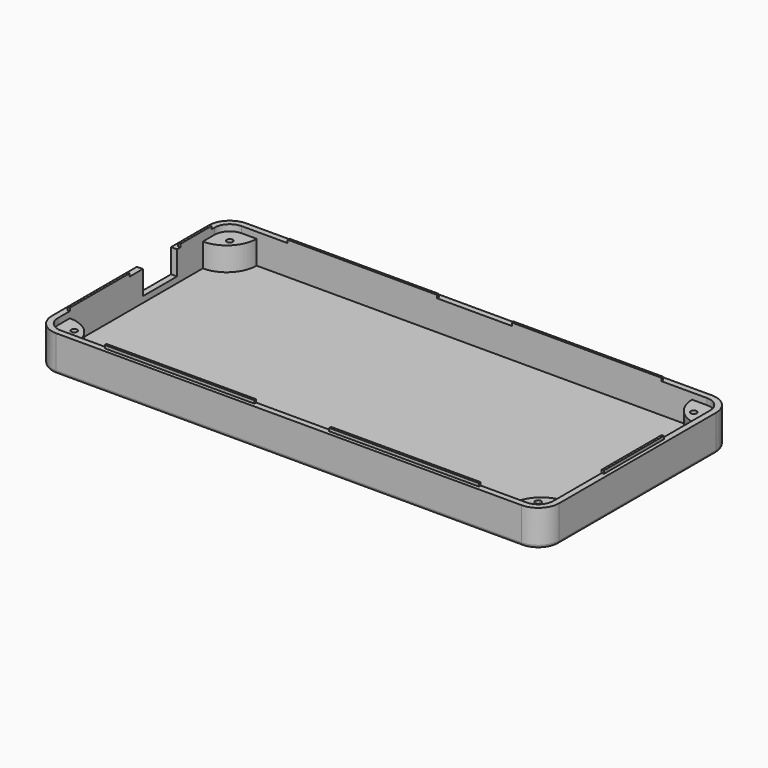
from build123d import *

# Parameters (mm, degrees)
PAD_DEPTH               = 10
THICKNESS_T             = 2
SKETCH001_R             = 1
PAD001_DEPTH            = 7.9
SKETCH001_MIRRORED_2_R  = 1
PAD001_MIRRORED_2_DEPTH = 7.9
SKETCH003_W             = 14.25
SKETCH003_H             = 8
POCKET_DEPTH            = 5
FILLET_R                = 1
SKETCH004_W             = 50
SKETCH004_H             = 0.75
SKETCH004_W_2           = 0.75
SKETCH004_H_2           = 25
SKETCH004_H_3           = 13
PAD002_DEPTH            = 1


with BuildPart() as part:
    # Sketch → Pad (new body)
    with BuildSketch(Plane.XY):
        with BuildLine():
            ThreePointArc((-77.75, 37.75), (-81.285534, 36.285534), (-82.75, 32.75))
            Line((-82.75, -32.75), (-82.75, 32.75))
            ThreePointArc((-82.75, -32.75), (-81.285534, -36.285534), (-77.75, -37.75))
            Line((77.75, -37.75), (-77.75, -37.75))
            ThreePointArc((77.75, -37.75), (81.285534, -36.285534), (82.75, -32.75))
            Line((82.75, 32.75), (82.75, -32.75))
            ThreePointArc((82.75, 32.75), (81.285534, 36.285534), (77.75, 37.75))
            Line((-77.75, 37.75), (77.75, 37.75))
        make_face()
    extrude(amount=PAD_DEPTH)

    # Thickness
    thickness_openings = [part.faces().sort_by_distance(p)[0] for p in [
        (0, 0, 10),
    ]]
    offset(amount=THICKNESS_T, openings=thickness_openings, kind=Kind.INTERSECTION)

    # Sketch001 (on Face9 of Thickness) → Pad001 (join)
    with BuildSketch(Plane.XY):
        with BuildLine():
            Line((-77.75, 37.75), (-72.75, 37.75))
            ThreePointArc((-82.75, 27.75), (-75.678932, 30.678932), (-72.75, 37.75))
            Line((-82.75, 32.75), (-82.75, 27.75))
            ThreePointArc((-77.75, 37.75), (-81.285534, 36.285534), (-82.75, 32.75))
        make_face()
        with Locations((-77.5, 32.5)):
            Circle(SKETCH001_R, mode=Mode.SUBTRACT)
    pad001 = extrude(amount=PAD001_DEPTH)

    # Sketch001 Mirrored 2 → Pad001 Mirrored 2 (add)
    with BuildSketch(Plane(origin=(0, 0, 0), x_dir=(-1, 0, 0), z_dir=(0, 0, -1))):
        with BuildLine():
            Line((-77.75, 37.75), (-72.75, 37.75))
            ThreePointArc((-82.75, 27.75), (-75.678932, 30.678932), (-72.75, 37.75))
            Line((-82.75, 32.75), (-82.75, 27.75))
            ThreePointArc((-77.75, 37.75), (-81.285534, 36.285534), (-82.75, 32.75))
        make_face()
        with Locations((-77.5, 32.5)):
            Circle(SKETCH001_MIRRORED_2_R, mode=Mode.SUBTRACT)
    pad001_mirrored_2 = extrude(amount=-PAD001_MIRRORED_2_DEPTH)

    # Mirrored001: Pad001, Pad001 Mirrored 2 across Sketch001 H_Axis
    add(pad001.mirror(Plane.ZX))
    add(pad001_mirrored_2.mirror(Plane.ZX))

    # Sketch003 (on Face19 of MultiTransform) → Pocket (cut)
    with BuildSketch(Plane(origin=(-84.75, 0, 0), x_dir=(0, -1, 0), z_dir=(-1, 0, 0))):
        with Locations((-9.875, 6)):
            Rectangle(SKETCH003_W, SKETCH003_H)
    extrude(amount=-POCKET_DEPTH, mode=Mode.SUBTRACT)

    # Fillet
    fillet_edges = [part.edges().sort_by_distance(p)[0] for p in [
        (0, 39.75, -2),
        (82.699747, 37.699747, -2),
        (84.75, 0, -2),
        (82.699747, -37.699747, -2),
        (0, -39.75, -2),
        (-82.699747, -37.699747, -2),
        (-84.75, 0, -2),
        (-82.699747, 37.699747, -2),
    ]]
    fillet(fillet_edges, radius=FILLET_R)

    # Sketch004 (on Face4 of Fillet) → Pad002 (join)
    with BuildSketch(Plane.XY.offset(10)):
        with Locations((-37.5, 38.125)):
            Rectangle(SKETCH004_W, SKETCH004_H)
        with Locations((37.5, 38.125)):
            Rectangle(SKETCH004_W, SKETCH004_H)
        with Locations((83.125, 0)):
            Rectangle(SKETCH004_W_2, SKETCH004_H_2)
        with Locations((-37.5, -38.125)):
            Rectangle(SKETCH004_W, SKETCH004_H)
        with Locations((37.5, -38.125)):
            Rectangle(SKETCH004_W, SKETCH004_H)
        with Locations((-83.125, -15.25)):
            Rectangle(SKETCH004_W_2, SKETCH004_H_2)
        with Locations((-83.125, 24.9)):
            Rectangle(SKETCH004_W_2, SKETCH004_H_3)
    extrude(amount=PAD002_DEPTH)


solid = part.part
